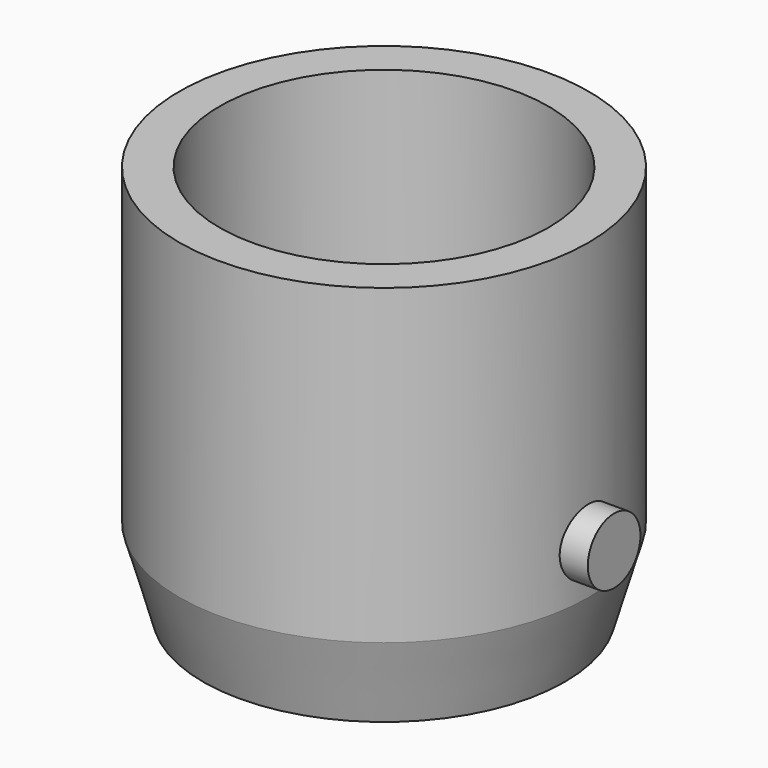
from build123d import *

# Parameters (mm, degrees)
F3_R     = 2.54
F4_DEPTH = 17.78


with BuildPart() as f2:
    # F0 (on Front) → F2 (revolve)
    with BuildSketch(Plane.XZ):
        Polygon((12.7, 7.62), (13.97, 7.62), (15.8115, 13.97), (15.8115, 38.1), (12.7, 38.1), align=None)
    revolve(axis=Axis((0, 0, 13.335), (0, 0, -1)))

    # F3 (on Right) → F4 (join, symmetric)
    with BuildSketch(Plane.YZ):
        with Locations((0, 17.78)):
            Circle(F3_R)
    extrude(amount=F4_DEPTH, both=True)


solid = f2.part
